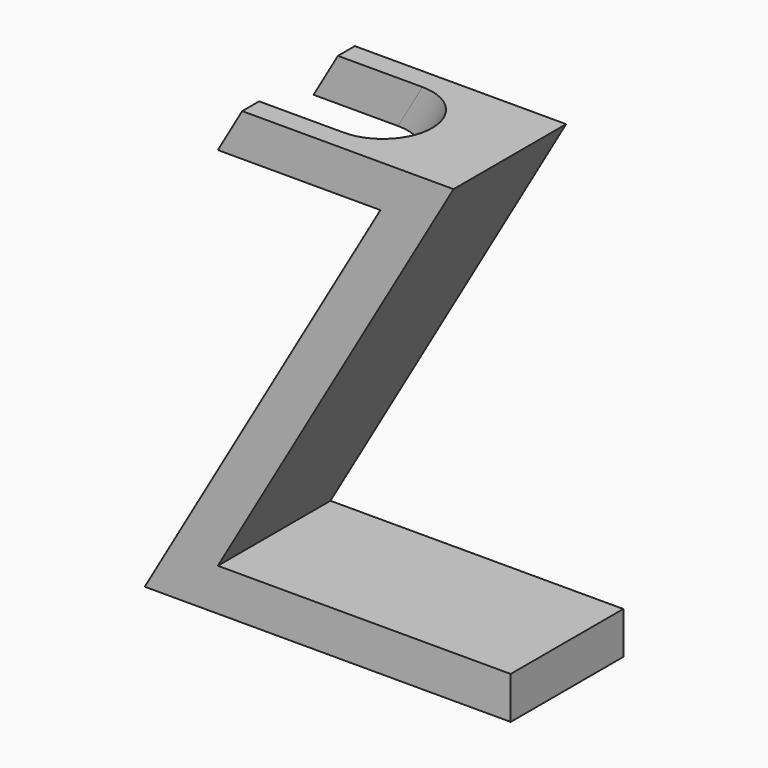
from build123d import *

# Parameters (mm, degrees)
F1_DEPTH = 50


with BuildPart() as f1:
    # F0 (on Front) → F1 (new body)
    with BuildSketch(Plane.XZ):
        Polygon((83.715789, 145), (0, 0), (130, 0), (130, 15), (25.980762, 15), (109.696551, 160), (34.641016, 160), (25.980762, 145), align=None)
    extrude(amount=F1_DEPTH)

    # F2 (on face) → F4 section 0
    with BuildSketch(Plane.XY.offset(160)):
        with BuildLine():
            Line((34.641016, -42.5), (64.641016, -42.5))
            ThreePointArc((64.641016, -42.5), (82.141016, -25), (64.641016, -7.5))
            Line((64.641016, -7.5), (34.641016, -7.5))
            Line((34.641016, -7.5), (34.641016, -42.5))
        make_face()
    # F3 (on face) → F4 section 1
    with BuildSketch(Plane(origin=(0, 0, 145), x_dir=(1, 0, 0), z_dir=(0, 0, -1))):
        with BuildLine():
            Line((25.980762, 7.5), (55.980762, 7.5))
            ThreePointArc((55.980762, 7.5), (73.480762, 25), (55.980762, 42.5))
            Line((55.980762, 42.5), (25.980762, 42.5))
            Line((25.980762, 42.5), (25.980762, 7.5))
        make_face()
    loft(mode=Mode.SUBTRACT)


solid = f1.part
